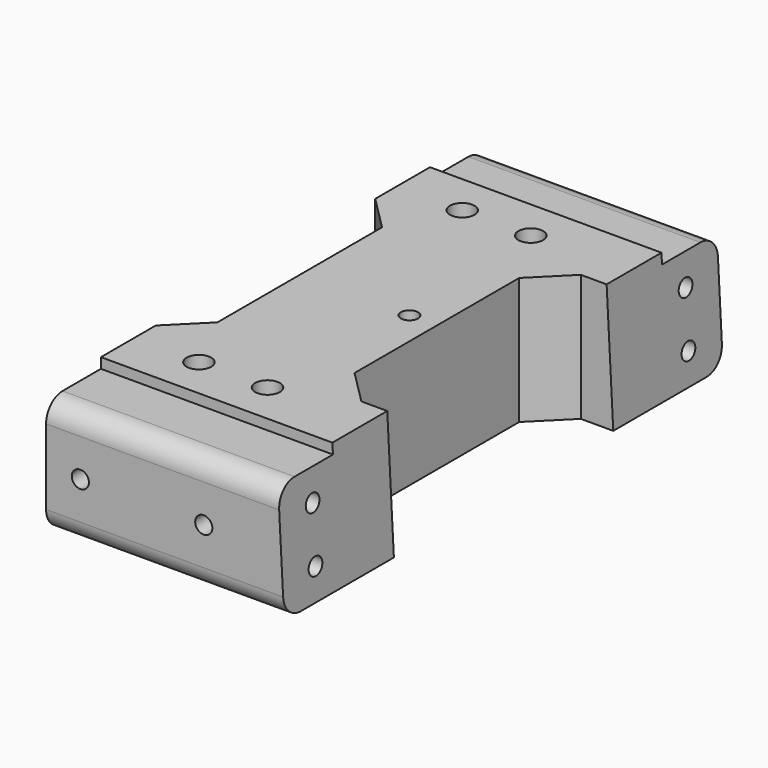
from build123d import *

# Parameters (mm, degrees)
CYLINDER445_R          = 1.25
CYLINDER445_DEPTH      = 20
BOX297_W               = 4
BOX297_H               = 4
BOX297_DEPTH           = 5
BOX298_W               = 4
BOX298_H               = 4
BOX298_DEPTH           = 5
CYLINDER444_R          = 1.25
CYLINDER444_DEPTH      = 15
CYLINDER443_R          = 1.25
CYLINDER443_DEPTH      = 15
CYLINDER442_R          = 1.25
CYLINDER442_DEPTH      = 15
CYLINDER441_R          = 1.25
CYLINDER441_DEPTH      = 15
CYLINDER450_R          = 1.8
CYLINDER450_DEPTH      = 18.5
CYLINDER451_R          = 1.8
CYLINDER451_DEPTH      = 18.5
CYLINDER446_R          = 1.8
CYLINDER446_DEPTH      = 18.5
CYLINDER447_R          = 1.8
CYLINDER447_DEPTH      = 18.5
CYLINDER449_R          = 1.25
CYLINDER449_DEPTH      = 15
CYLINDER448_R          = 1.25
CYLINDER448_DEPTH      = 15
CYLINDER440_R          = 1.25
CYLINDER440_DEPTH      = 15
CYLINDER439_R          = 1.25
CYLINDER439_DEPTH      = 15
BOX293_W               = 10
BOX293_H               = 82
BOX293_DEPTH           = 32
BOX293_PLACEMENT_ANGLE = 3
BOX300_W               = 35
BOX300_H               = 10
BOX300_DEPTH           = 1.5
BOX295_W               = 35
BOX295_H               = 20
BOX295_DEPTH           = 17
BOX292_W               = 35
BOX292_H               = 20
BOX292_DEPTH           = 17
BOX296_W               = 20
BOX296_H               = 40
BOX296_DEPTH           = 18.5
BOX299_W               = 35
BOX299_H               = 10
BOX299_DEPTH           = 1.5
FILLET107_R            = 3
CHAMFER030_SIZE        = 4.99


with BuildPart() as cylinder445:
    # Cylinder445 → Cylinder445 (new body)
    with BuildSketch(Plane(origin=(586, 31, 1.5), x_dir=(1, 0, 0), z_dir=(0, 0, 1))):
        Circle(CYLINDER445_R)
    extrude(amount=CYLINDER445_DEPTH)


with BuildPart() as box297:
    # Box297 → Box297 (new body)
    with BuildSketch(Plane(origin=(579, -6, 1.5), x_dir=(1, 0, 0), z_dir=(0, 0, 1))):
        with Locations((2, 2)):
            Rectangle(BOX297_W, BOX297_H)
    extrude(amount=BOX297_DEPTH)


with BuildPart() as fusion398:
    # Box298 → Box298 (new body)
    with BuildSketch(Plane(origin=(579, 64, 1.5), x_dir=(1, 0, 0), z_dir=(0, 0, 1))):
        with Locations((2, 2)):
            Rectangle(BOX298_W, BOX298_H)
    extrude(amount=BOX298_DEPTH)

    # Fusion398: union Box297
    add(box297.part)


with BuildPart() as cylinder444:
    # Cylinder444 → Cylinder444 (new body)
    with BuildSketch(Plane(origin=(585, 7, 6), x_dir=(0, 0, -1), z_dir=(1, 0, 0))):
        Circle(CYLINDER444_R)
    extrude(amount=CYLINDER444_DEPTH)


with BuildPart() as fusion396:
    # Cylinder443 → Cylinder443 (new body)
    with BuildSketch(Plane(origin=(585, 7, 14), x_dir=(0, 0, -1), z_dir=(1, 0, 0))):
        Circle(CYLINDER443_R)
    extrude(amount=CYLINDER443_DEPTH)

    # Fusion396: union Cylinder444
    add(cylinder444.part)


with BuildPart() as fusion396_1:
    # Fusion396 placement: moved
    add(fusion396.part.moved(Location((0, 58, 0))))


with BuildPart() as cylinder442:
    # Cylinder442 → Cylinder442 (new body)
    with BuildSketch(Plane(origin=(585, 7, 6), x_dir=(0, 0, -1), z_dir=(1, 0, 0))):
        Circle(CYLINDER442_R)
    extrude(amount=CYLINDER442_DEPTH)


with BuildPart() as fusion397:
    # Cylinder441 → Cylinder441 (new body)
    with BuildSketch(Plane(origin=(585, 7, 14), x_dir=(0, 0, -1), z_dir=(1, 0, 0))):
        Circle(CYLINDER441_R)
    extrude(amount=CYLINDER441_DEPTH)

    # Fusion395: union Cylinder442
    add(cylinder442.part)


with BuildPart() as fusion397_1:
    # Fusion395 placement: moved
    add(fusion397.part.moved(Location((0, -10, 0))))

    # Fusion397: union Fusion396
    add(fusion396_1.part)


with BuildPart() as cylinder450:
    # Cylinder450 → Cylinder450 (new body)
    with BuildSketch(Plane(origin=(584, 7, 10.5), x_dir=(1, 0, 0), z_dir=(0, 0, 1))):
        Circle(CYLINDER450_R)
    extrude(amount=CYLINDER450_DEPTH)


with BuildPart() as fusion403:
    # Cylinder451 → Cylinder451 (new body)
    with BuildSketch(Plane(origin=(584, 55, 10.5), x_dir=(1, 0, 0), z_dir=(0, 0, 1))):
        Circle(CYLINDER451_R)
    extrude(amount=CYLINDER451_DEPTH)

    # Fusion403: union Cylinder450
    add(cylinder450.part)


with BuildPart() as fusion403_1:
    # Fusion403 placement: moved
    add(fusion403.part.moved(Location((-9.5, 0, -9))))


with BuildPart() as cylinder446:
    # Cylinder446 → Cylinder446 (new body)
    with BuildSketch(Plane(origin=(584, 7, 10.5), x_dir=(1, 0, 0), z_dir=(0, 0, 1))):
        Circle(CYLINDER446_R)
    extrude(amount=CYLINDER446_DEPTH)


with BuildPart() as fusion405:
    # Cylinder447 → Cylinder447 (new body)
    with BuildSketch(Plane(origin=(584, 55, 10.5), x_dir=(1, 0, 0), z_dir=(0, 0, 1))):
        Circle(CYLINDER447_R)
    extrude(amount=CYLINDER447_DEPTH)

    # Fusion399: union Cylinder446
    add(cylinder446.part)


with BuildPart() as fusion405_1:
    # Fusion399 placement: moved
    add(fusion405.part.moved(Location((0.5, 0, -9))))

    # Fusion405: union Fusion403
    add(fusion403_1.part)


with BuildPart() as cylinder449:
    # Cylinder449 → Cylinder449 (new body)
    with BuildSketch(Plane(origin=(588, 71, 10), x_dir=(1, 0, 0), z_dir=(0, -1, 0))):
        Circle(CYLINDER449_R)
    extrude(amount=CYLINDER449_DEPTH)


with BuildPart() as fusion401:
    # Cylinder448 → Cylinder448 (new body)
    with BuildSketch(Plane(origin=(588, 6, 10), x_dir=(1, 0, 0), z_dir=(0, -1, 0))):
        Circle(CYLINDER448_R)
    extrude(amount=CYLINDER448_DEPTH)

    # Fusion401: union Cylinder449
    add(cylinder449.part)


with BuildPart() as fusion401_1:
    # Fusion401 placement: moved
    add(fusion401.part.moved(Location((-18, 0, 0))))


with BuildPart() as cylinder440:
    # Cylinder440 → Cylinder440 (new body)
    with BuildSketch(Plane(origin=(588, 71, 10), x_dir=(1, 0, 0), z_dir=(0, -1, 0))):
        Circle(CYLINDER440_R)
    extrude(amount=CYLINDER440_DEPTH)


with BuildPart() as fusion404:
    # Cylinder439 → Cylinder439 (new body)
    with BuildSketch(Plane(origin=(588, 6, 10), x_dir=(1, 0, 0), z_dir=(0, -1, 0))):
        Circle(CYLINDER439_R)
    extrude(amount=CYLINDER439_DEPTH)

    # Fusion394: union Cylinder440
    add(cylinder440.part)

    # Fusion404: union Fusion401
    add(fusion401_1.part)


with BuildPart() as box293:
    # Box293 → Box293 (new body)
    with BuildSketch(Plane.XY):
        with Locations((5, 41)):
            Rectangle(BOX293_W, BOX293_H)
    extrude(amount=BOX293_DEPTH)


with BuildPart() as box293_1:
    # Box293 placement: moved
    add(box293.part.moved(Location((600, -10, -3.6))).rotate(Axis((600, -10, -3.6), (0, -1, 0)), BOX293_PLACEMENT_ANGLE))


with BuildPart() as box300:
    # Box300 → Box300 (new body)
    with BuildSketch(Plane(origin=(565, 1, 18.5), x_dir=(1, 0, 0), z_dir=(0, 0, 1))):
        with Locations((17.5, 5)):
            Rectangle(BOX300_W, BOX300_H)
    extrude(amount=BOX300_DEPTH)


with BuildPart() as box295:
    # Box295 → Box295 (new body)
    with BuildSketch(Plane(origin=(565, 51, 1.5), x_dir=(1, 0, 0), z_dir=(0, 0, 1))):
        with Locations((17.5, 10)):
            Rectangle(BOX295_W, BOX295_H)
    extrude(amount=BOX295_DEPTH)


with BuildPart() as box292:
    # Box292 → Box292 (new body)
    with BuildSketch(Plane(origin=(565, -9, 1.5), x_dir=(1, 0, 0), z_dir=(0, 0, 1))):
        with Locations((17.5, 10)):
            Rectangle(BOX292_W, BOX292_H)
    extrude(amount=BOX292_DEPTH)


with BuildPart() as box296:
    # Box296 → Box296 (new body)
    with BuildSketch(Plane(origin=(570, 11, 1.5), x_dir=(1, 0, 0), z_dir=(0, 0, 1))):
        with Locations((10, 20)):
            Rectangle(BOX296_W, BOX296_H)
    extrude(amount=BOX296_DEPTH)


with BuildPart() as rear_cross_member_wide:
    # Box299 → Box299 (new body)
    with BuildSketch(Plane(origin=(565, 51, 18.5), x_dir=(1, 0, 0), z_dir=(0, 0, 1))):
        with Locations((17.5, 5)):
            Rectangle(BOX299_W, BOX299_H)
    extrude(amount=BOX299_DEPTH)

    # Fusion402: union Box300, Box295, Box292, Box296
    add(box300.part)
    add(box295.part)
    add(box292.part)
    add(box296.part)

    # Cut293: cut Box293
    add(box293_1.part, mode=Mode.SUBTRACT)

    # Cut294: cut Fusion404
    add(fusion404.part, mode=Mode.SUBTRACT)

    # Cut295: cut Fusion405
    add(fusion405_1.part, mode=Mode.SUBTRACT)

    # Fillet107
    fillet107_edges = [rear_cross_member_wide.edges().sort_by_distance(p)[0] for p in [
        (582.36636, 71, 1.5),
        (581.920894, 71, 18.5),
        (582.36636, -9, 1.5),
        (581.920894, -9, 18.5),
    ]]
    fillet(fillet107_edges, radius=FILLET107_R)

    # Chamfer030
    chamfer030_edges = [rear_cross_member_wide.edges().sort_by_distance(p)[0] for p in [
        (570, 51, 10.75),
        (590, 51, 10.75),
        (570, 11, 10.75),
        (590, 11, 10.75),
    ]]
    chamfer(chamfer030_edges, length=CHAMFER030_SIZE)

    # Cut296: cut Fusion397
    add(fusion397_1.part, mode=Mode.SUBTRACT)

    # Cut297: cut Fusion398
    add(fusion398.part, mode=Mode.SUBTRACT)

    # Cut298: cut Cylinder445
    add(cylinder445.part, mode=Mode.SUBTRACT)


solid = rear_cross_member_wide.part
